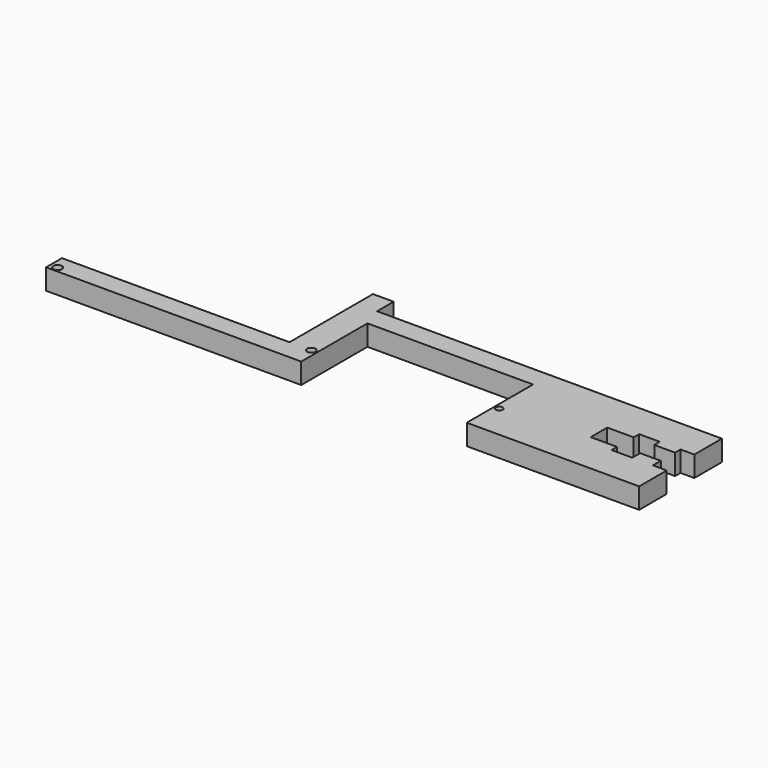
from build123d import *

# Parameters (mm, degrees)
F0_R     = 1.608883
F0_R_2   = 1.544668
F0_R_3   = 1.233818
F1_DEPTH = 7.62


with BuildPart() as f1:
    # F0 (on Top) → F1 (new body)
    with BuildSketch(Plane.XY):
        Polygon((-72.95876, -38.407013), (-72.95876, -45.72), (21.02124, -45.72), (21.02124, -15.24), (81.98124, -15.24), (81.98124, -45.72), (145.48124, -45.72), (145.48124, -33.02), (140.40124, -33.02), (140.40124, -29.386098), (132.78124, -29.386098), (132.78124, -33.02), (125.16124, -33.02), (125.16124, -30.48), (115.428261, -30.48), (115.428261, -22.86), (125.16124, -22.86), (125.16124, -20.32), (132.78124, -20.32), (132.78124, -22.86), (140.40124, -22.86), (140.40124, -20.32), (145.48124, -20.32), (145.48124, -7.62), (18.48124, -7.62), (18.48124, 0), (10.86124, 0), (10.86124, -7.62), (10.86124, -38.407013), align=None)
        with Locations((-70.268311, -43.790352)):
            Circle(F0_R, mode=Mode.SUBTRACT)
        with Locations((18.905923, -38.407013)):
            Circle(F0_R_2, mode=Mode.SUBTRACT)
        with Locations((83.798669, -33.02)):
            Circle(F0_R_3, mode=Mode.SUBTRACT)
    extrude(amount=F1_DEPTH)


solid = f1.part
